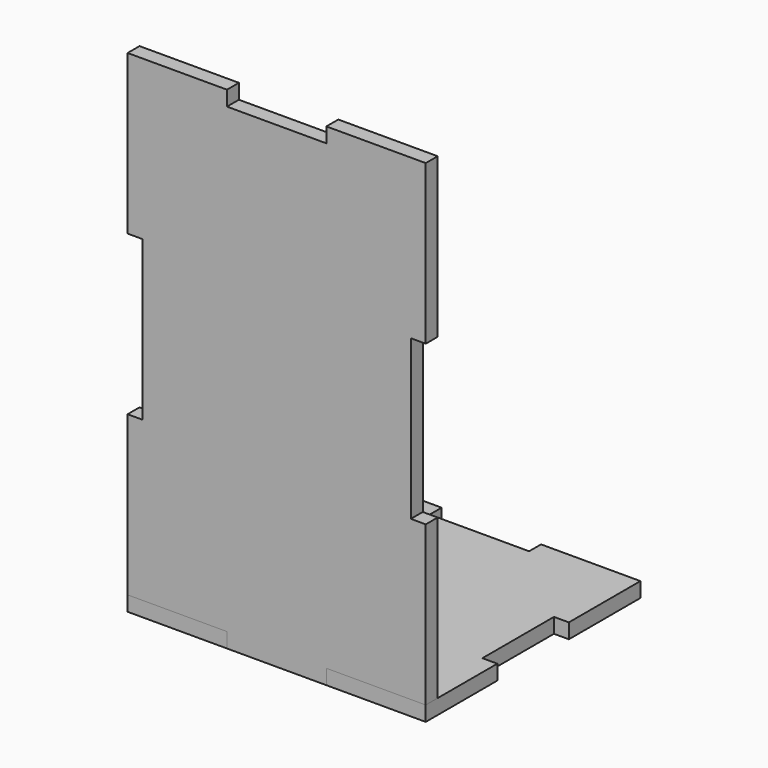
from build123d import *

# Parameters (mm, degrees)
EXTRUDE_DEPTH    = 5
EXTRUDE001_DEPTH = 5


with BuildPart() as base:
    # Sketch → Extrude (new body)
    with BuildSketch(Plane.XY):
        Polygon((0, 30), (0, 0), (33.333333, 0), (33.333333, 5), (66.666667, 5), (66.666667, 0), (100, 0), (100, 30), (95, 30), (95, 60), (100, 60), (100, 90), (66.666667, 90), (66.666667, 85), (33.333333, 85), (33.333333, 90), (0, 90), (0, 60), (5, 60), (5, 30), align=None)
    extrude(amount=EXTRUDE_DEPTH)


with BuildPart() as frontal:
    # Sketch001 → Extrude001 (new body)
    with BuildSketch(Plane.XZ):
        Polygon((33.333333, 0), (66.666667, 0), (66.666667, 5), (100, 5), (100, 58.333333), (95, 58.333333), (95, 111.666667), (100, 111.666667), (100, 165), (66.666667, 165), (66.666667, 160), (33.333333, 160), (33.333333, 165), (0, 165), (0, 111.666667), (5, 111.666667), (5, 58.333333), (0, 58.333333), (0, 5), (33.333333, 5), align=None)
    extrude(amount=-EXTRUDE001_DEPTH)


solid = Compound([base.part, frontal.part])
